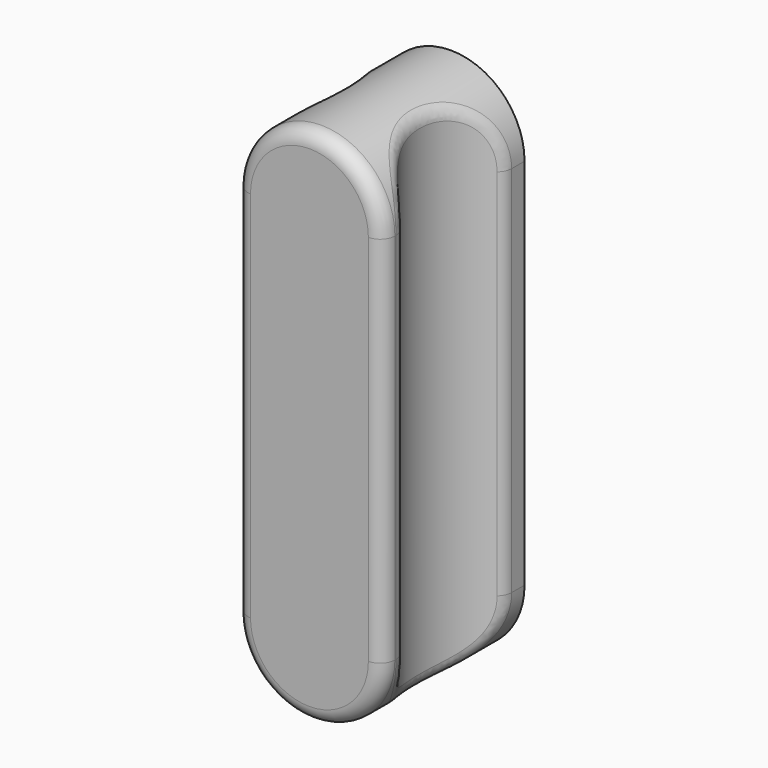
from build123d import *

# Parameters (mm, degrees)
PAD_DEPTH         = 18
SKETCH002_R       = 8
POCKET_DEPTH      = 7.501
POCKET_DEPTH_BACK = -45.501
FILLET_R          = 1.5
SKETCH003_R       = 1.25
POCKET001_DEPTH   = 10


with BuildPart() as part:
    # Sketch → Pad (new body)
    with BuildSketch(Plane.XZ):
        with BuildLine():
            Line((7.5, 38), (7.5, 0))
            ThreePointArc((-7.5, 0), (0, -7.5), (7.5, 0))
            Line((-7.5, 0), (-7.5, 38))
            ThreePointArc((7.5, 38), (0, 45.5), (-7.5, 38))
        make_face()
    extrude(amount=PAD_DEPTH)

    # Sketch002 → Pocket (cut, two sides)
    with BuildSketch(Plane.XY) as pocket_sk:
        with Locations((-12, -9)):
            Circle(SKETCH002_R)
        with Locations((12, -9)):
            Circle(SKETCH002_R)
    extrude(amount=-POCKET_DEPTH, mode=Mode.SUBTRACT)
    extrude(pocket_sk.sketch, amount=-POCKET_DEPTH_BACK, mode=Mode.SUBTRACT)

    # Fillet
    fillet_edges = [part.edges().sort_by_distance(p)[0] for p in [
        (-7.5, -18, 19),
        (-7.5, -15.614378, 19),
        (7.5, -15.614378, 19),
    ]]
    fillet(fillet_edges, radius=FILLET_R)

    # Sketch003 (on Face4 of Fillet) → Pocket001 (cut)
    with BuildSketch(Plane(origin=(0, 0, 0), x_dir=(1, 0, 0), z_dir=(0, 1, 0))):
        Circle(SKETCH003_R)
        with Locations((0, -38)):
            Circle(SKETCH003_R)
    extrude(amount=-POCKET001_DEPTH, mode=Mode.SUBTRACT)


solid = part.part
